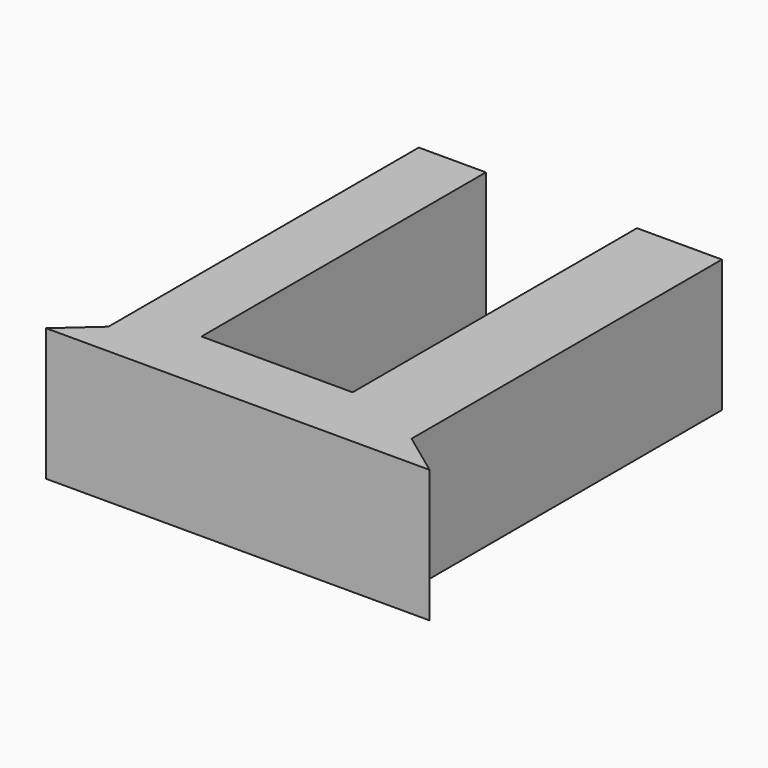
from build123d import *

# Parameters (mm, degrees)
F1_DEPTH = 25


with BuildPart() as f1:
    # F0 (on Top) → F1 (new body)
    with BuildSketch(Plane.XY):
        Polygon((-22.703089, -16.561474), (-16.901723, -16.561474), (-16.901723, 50.48896), (-29.561883, 50.48896), (-29.561883, -22.681953), align=None)
        Polygon((11.59783, -16.561474), (19.314572, -16.561474), (27.616447, -22.681953), (27.616447, 50.48896), (11.59783, 50.48896), align=None)
        Polygon((19.314572, -28.802432), (19.314572, -16.561474), (11.59783, -16.561474), (-16.901723, -16.561474), (-22.703089, -16.561474), (-22.703089, -28.802432), align=None)
        Polygon((-36.420677, -28.802432), (-22.703089, -28.802432), (-22.703089, -16.561474), (-29.561883, -22.681953), align=None)
        Polygon((27.616447, -22.681953), (19.314572, -16.561474), (19.314572, -28.802432), (35.918321, -28.802432), align=None)
    extrude(amount=F1_DEPTH)


solid = f1.part
